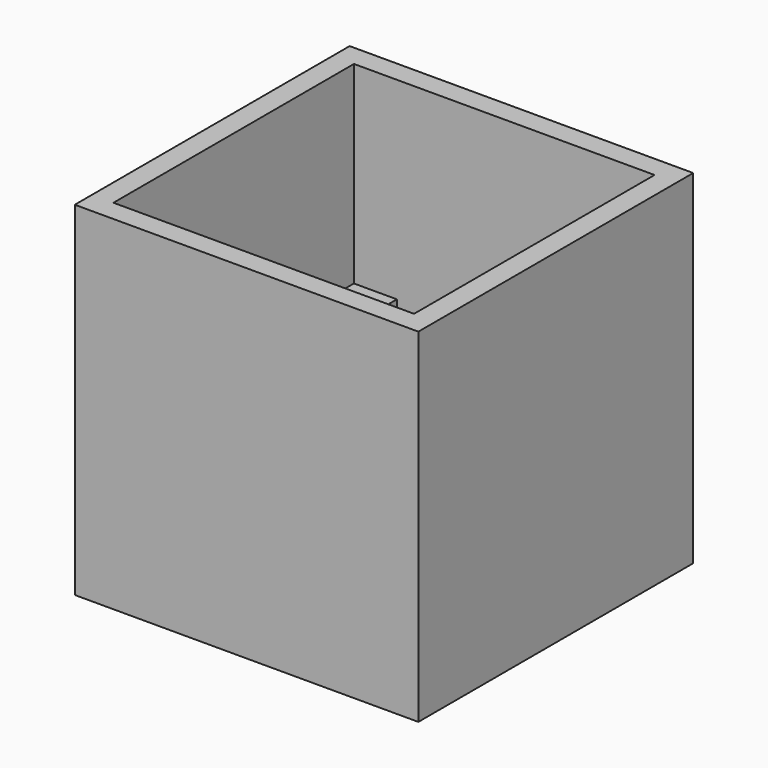
from build123d import *

# Parameters (mm, degrees)
F0_W      = 101.603322
F0_H      = 101.60333
F1_DEPTH  = 101.6
F2_T      = -6.35
F3_W      = 12.7
F3_H      = 12.7
F4_DEPTH  = 38.1
F5_W      = 12.7
F5_H      = 12.7
F6_DEPTH  = 38.1
F7_W      = 12.7
F7_H      = 12.7
F8_DEPTH  = 38.1
F9_W      = 12.7
F9_H      = 12.7
F10_DEPTH = 38.1
F11_W     = 12.7
F11_H     = 12.7
F12_DEPTH = 50.8
F13_R     = 3.310042
F14_DEPTH = 25.4


with BuildPart() as f1:
    # F0 (on Front) → F1 (new body)
    with BuildSketch(Plane.XZ):
        Rectangle(F0_W, F0_H)
    extrude(amount=F1_DEPTH)

    # F2
    f2_openings = [f1.faces().sort_by_distance(p)[0] for p in [
        (0, -50.8, 50.801665),
    ]]
    offset(amount=F2_T, openings=f2_openings)

    # F3 (on face) → F4 (join)
    with BuildSketch(Plane.XY.offset(-44.451665)):
        with Locations((-38.101661, -12.7)):
            Rectangle(F3_W, F3_H)
    extrude(amount=F4_DEPTH)

    # F5 (on face) → F6 (join)
    with BuildSketch(Plane.XY.offset(-44.451665)):
        with Locations((38.101661, -12.7)):
            Rectangle(F5_W, F5_H)
    extrude(amount=F6_DEPTH)

    # F7 (on face) → F8 (join)
    with BuildSketch(Plane.XY.offset(-44.451665)):
        with Locations((-38.101661, -88.9)):
            Rectangle(F7_W, F7_H)
    extrude(amount=F8_DEPTH)

    # F9 (on face) → F10 (join)
    with BuildSketch(Plane.XY.offset(-44.451665)):
        with Locations((38.101661, -88.9)):
            Rectangle(F9_W, F9_H)
    extrude(amount=F10_DEPTH)

    # F11 (on face) → F12 (join)
    with BuildSketch(Plane.XY.offset(-44.451665)):
        with Locations((0, -49.202401)):
            Rectangle(F11_W, F11_H)
    extrude(amount=F12_DEPTH)

    # F13 (on face) → F14 (cut)
    with BuildSketch(Plane.XZ.offset(55.552401)):
        Circle(F13_R)
    extrude(amount=-F14_DEPTH, mode=Mode.SUBTRACT)


solid = f1.part
